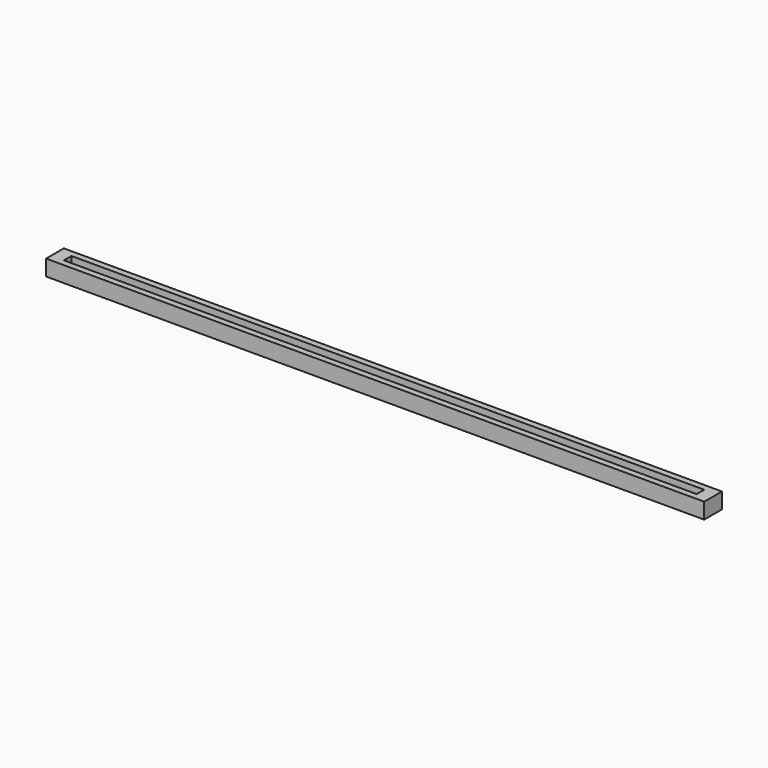
from build123d import *

# Parameters (mm, degrees)
F0_W     = 1040
F0_H     = 25
F1_DEPTH = 35
F2_W     = 1000
F2_H     = 15
F3_DEPTH = 25.001


with BuildPart() as f1:
    # F0 (on Front) → F1 (new body)
    with BuildSketch(Plane.XZ):
        with Locations((520, 12.5)):
            Rectangle(F0_W, F0_H)
    extrude(amount=F1_DEPTH)

    # F2 (on face) → F3 (cut, through all)
    with BuildSketch(Plane(origin=(0, 0, 0), x_dir=(1, 0, 0), z_dir=(0, 0, -1))):
        with Locations((520, 17.5)):
            Rectangle(F2_W, F2_H)
    extrude(amount=-F3_DEPTH, mode=Mode.SUBTRACT)


solid = f1.part
